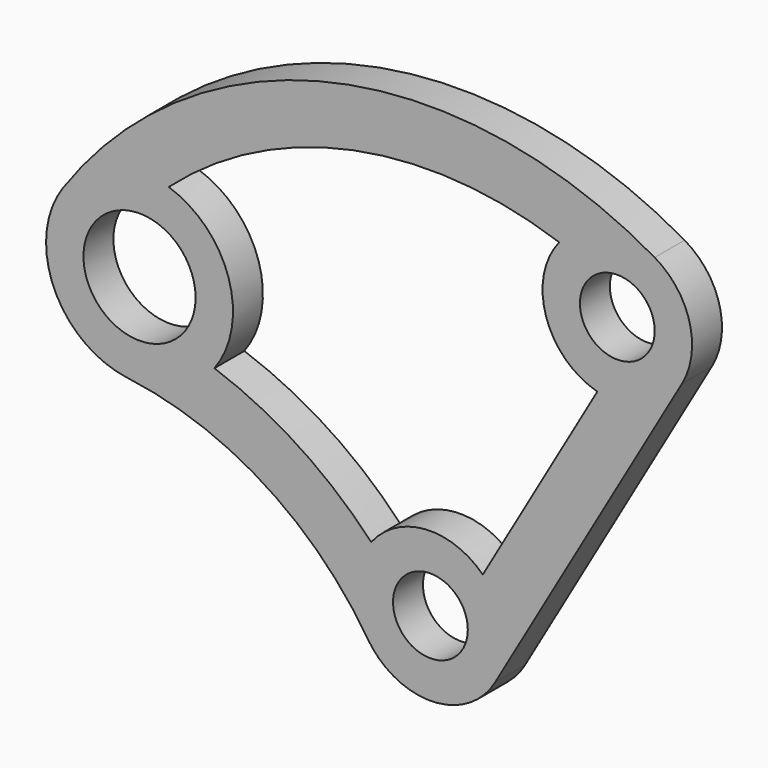
from build123d import *

# Parameters (mm, degrees)
F0_R     = 254
F0_R_2   = 381
F1_DEPTH = 254


with BuildPart() as f1:
    # F0 (on Front) → F1 (new body)
    with BuildSketch(Plane.XZ):
        with BuildLine():
            ThreePointArc((1709.940905, 1945.704526), (1760.69032, 2331.184601), (1524, 2639.645431))
            ThreePointArc((1524, 2639.645431), (-659.707943, 2975.75023), (-2496.775431, 1748.260978))
            ThreePointArc((-2496.775431, 1748.260978), (-2557.434532, 1127.383803), (-2057.521233, 754.215362))
            ThreePointArc((-2057.521233, 754.215362), (-1128.449023, 419.867707), (-427.052308, -275.11875))
            ThreePointArc((-427.052308, -275.11875), (12.370505, -507.849358), (439.940905, -254))
            Line((439.940905, -254), (1709.940905, 1945.704526))
        make_face()
        Circle(F0_R, mode=Mode.SUBTRACT)
        with Locations((-1976.613883, 1384.039941)):
            Circle(F0_R_2, mode=Mode.SUBTRACT)
        with BuildLine():
            Line((1134.050784, 1710.233576), (355.919669, 362.47095))
            ThreePointArc((355.919669, 362.47095), (-34.99221, 506.793395), (-402.359214, 310.114596))
            ThreePointArc((-402.359214, 310.114596), (-893.111016, 721.549186), (-1467.794386, 1004.135059))
            ThreePointArc((-1467.794386, 1004.135059), (-1371.137018, 1575.410697), (-1778.559695, 1987.363684))
            ThreePointArc((-1778.559695, 1987.363684), (-524.197536, 2614.977236), (875.150152, 2519.325547))
            ThreePointArc((875.150152, 2519.325547), (786.167006, 2044.883229), (1134.050784, 1710.233576))
        make_face(mode=Mode.SUBTRACT)
        with Locations((1270, 2199.704526)):
            Circle(F0_R, mode=Mode.SUBTRACT)
    extrude(amount=F1_DEPTH)


solid = f1.part
